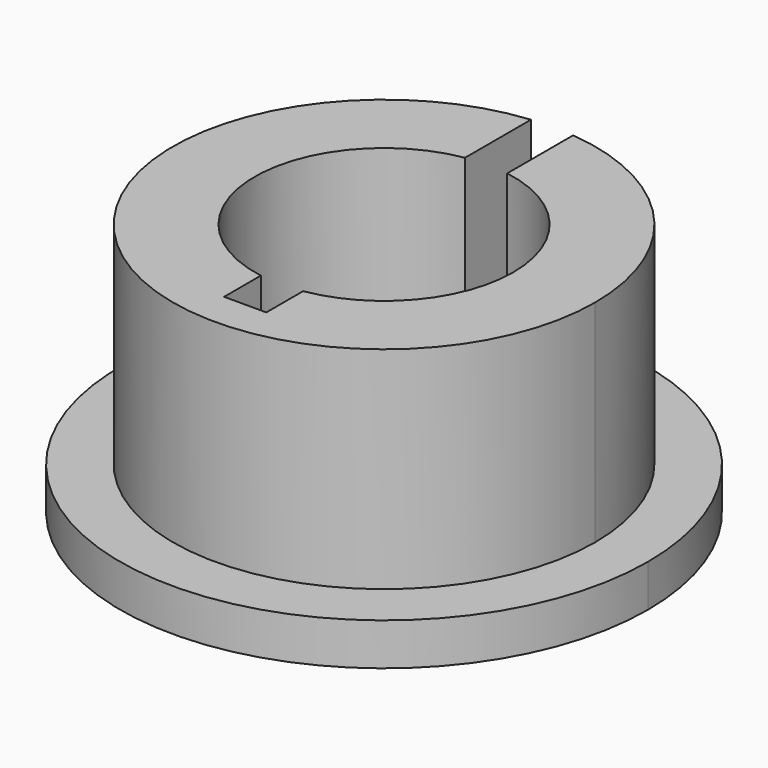
from build123d import *

# Parameters (mm, degrees)
F1_DEPTH = 12
F2_DEPTH = 2


with BuildPart() as f1:
    # F0 (on Top) → F1 (new body)
    with BuildSketch(Plane.XY):
        with BuildLine():
            ThreePointArc((-38.1583740711, 6.0428159826), (-34.4871523359, 3.9617309979), (-33.0333740711, 0))
            ThreePointArc((-33.0333740711, 0), (-34.4871523359, -3.9617309979), (-38.1583740711, -6.0428159826))
            Line((-38.1583740711, -6.0428159826), (-38.1583740711, -6.125))
            Line((-38.1583740711, -6.125), (-38.1583740711, -8.2192253321))
            Line((-38.1583740711, -8.2192253321), (-40.1583740711, -8.2192253321))
            Line((-40.1583740711, -8.2192253321), (-40.1583740711, -6.2192253321))
            Line((-40.1583740711, -6.2192253321), (-40.1583740711, -6.0428159826))
            ThreePointArc((-40.1583740711, -6.0428159826), (-45.2833740711, 0), (-40.1583740711, 6.0428159826))
            Line((-40.1583740711, 6.0428159826), (-40.1583740711, 6.125))
            Line((-40.1583740711, 6.125), (-40.1583740711, 9.9498743711))
            ThreePointArc((-40.1583740711, 9.9498743711), (-45.8665780036, -7.4161984871), (-29.1583740711, 0))
            ThreePointArc((-29.1583740711, 0), (-31.742175584, 6.7082039325), (-38.1583740711, 9.9498743711))
            Line((-38.1583740711, 9.9498743711), (-38.1583740711, 6.125))
            Line((-38.1583740711, 6.125), (-38.1583740711, 6.0428159826))
        make_face()
    extrude(amount=F1_DEPTH)

    # F0 (on Top) → F2 (join)
    with BuildSketch(Plane.XY):
        with BuildLine():
            Line((-38.1583740711, 12.4599357944), (-38.1583740711, 9.9498743711))
            ThreePointArc((-38.1583740711, 9.9498743711), (-31.742175584, 6.7082039325), (-29.1583740711, 0))
            ThreePointArc((-29.1583740711, 0), (-45.8665780036, -7.4161984871), (-40.1583740711, 9.9498743711))
            Line((-40.1583740711, 9.9498743711), (-40.1583740711, 12.4599357944))
            ThreePointArc((-40.1583740711, 12.4599357944), (-47.63628655, -9.1855865354), (-26.6583740711, 0))
            ThreePointArc((-26.6583740711, 0), (-29.9727875357, 8.4779124789), (-38.1583740711, 12.4599357944))
        make_face()
    extrude(amount=F2_DEPTH)


solid = f1.part
